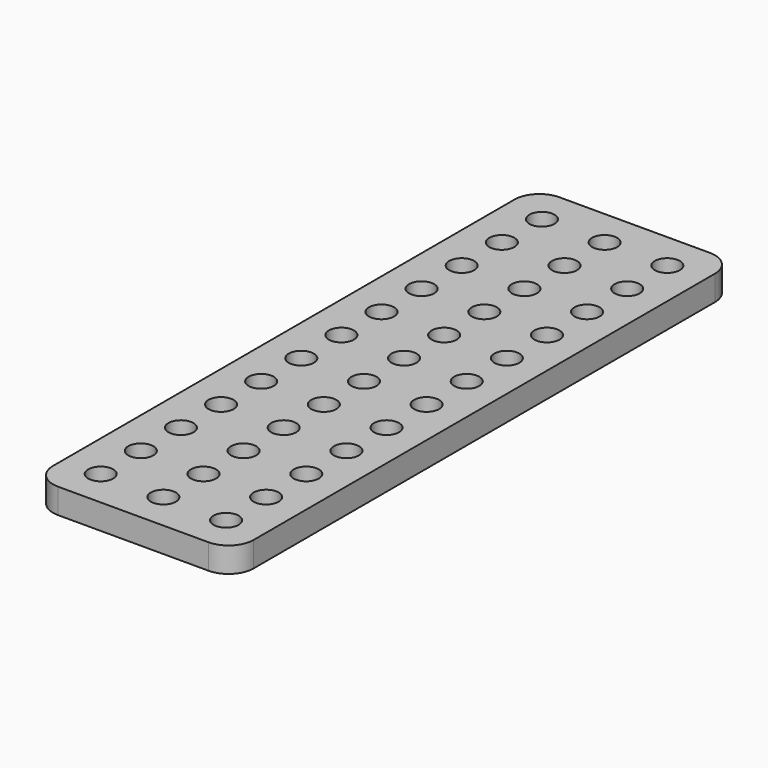
from build123d import *

# Parameters (mm, degrees)
F0_W     = 32
F0_H     = 100
F0_R     = 2
F1_DEPTH = 4
F2_R     = 4


with BuildPart() as f1:
    # F0 (on Top) → F1 (new body)
    with BuildSketch(Plane.XY):
        with Locations((-16, 64.960798)):
            Rectangle(F0_W, F0_H)
        with Locations((-26, 20.960798)):
            Circle(F0_R, mode=Mode.SUBTRACT)
        with Locations((-26, 28.960798)):
            Circle(F0_R, mode=Mode.SUBTRACT)
        with Locations((-26, 36.960798)):
            Circle(F0_R, mode=Mode.SUBTRACT)
        with Locations((-26, 44.960798)):
            Circle(F0_R, mode=Mode.SUBTRACT)
        with Locations((-26, 52.960798)):
            Circle(F0_R, mode=Mode.SUBTRACT)
        with Locations((-26, 60.960798)):
            Circle(F0_R, mode=Mode.SUBTRACT)
        with Locations((-16, 20.960798)):
            Circle(F0_R, mode=Mode.SUBTRACT)
        with Locations((-16, 28.960798)):
            Circle(F0_R, mode=Mode.SUBTRACT)
        with Locations((-16, 36.960798)):
            Circle(F0_R, mode=Mode.SUBTRACT)
        with Locations((-6, 20.960798)):
            Circle(F0_R, mode=Mode.SUBTRACT)
        with Locations((-6, 28.960798)):
            Circle(F0_R, mode=Mode.SUBTRACT)
        with Locations((-6, 36.960798)):
            Circle(F0_R, mode=Mode.SUBTRACT)
        with Locations((-16, 44.960798)):
            Circle(F0_R, mode=Mode.SUBTRACT)
        with Locations((-16, 52.960798)):
            Circle(F0_R, mode=Mode.SUBTRACT)
        with Locations((-16, 60.960798)):
            Circle(F0_R, mode=Mode.SUBTRACT)
        with Locations((-6, 44.960798)):
            Circle(F0_R, mode=Mode.SUBTRACT)
        with Locations((-6, 52.960798)):
            Circle(F0_R, mode=Mode.SUBTRACT)
        with Locations((-6, 60.960798)):
            Circle(F0_R, mode=Mode.SUBTRACT)
        with Locations((-26, 68.960798)):
            Circle(F0_R, mode=Mode.SUBTRACT)
        with Locations((-26, 76.960798)):
            Circle(F0_R, mode=Mode.SUBTRACT)
        with Locations((-26, 84.960798)):
            Circle(F0_R, mode=Mode.SUBTRACT)
        with Locations((-26, 92.960798)):
            Circle(F0_R, mode=Mode.SUBTRACT)
        with Locations((-26, 100.960798)):
            Circle(F0_R, mode=Mode.SUBTRACT)
        with Locations((-26, 108.960798)):
            Circle(F0_R, mode=Mode.SUBTRACT)
        with Locations((-16, 68.960798)):
            Circle(F0_R, mode=Mode.SUBTRACT)
        with Locations((-16, 76.960798)):
            Circle(F0_R, mode=Mode.SUBTRACT)
        with Locations((-16, 84.960798)):
            Circle(F0_R, mode=Mode.SUBTRACT)
        with Locations((-6, 68.960798)):
            Circle(F0_R, mode=Mode.SUBTRACT)
        with Locations((-6, 76.960798)):
            Circle(F0_R, mode=Mode.SUBTRACT)
        with Locations((-6, 84.960798)):
            Circle(F0_R, mode=Mode.SUBTRACT)
        with Locations((-16, 92.960798)):
            Circle(F0_R, mode=Mode.SUBTRACT)
        with Locations((-16, 100.960798)):
            Circle(F0_R, mode=Mode.SUBTRACT)
        with Locations((-16, 108.960798)):
            Circle(F0_R, mode=Mode.SUBTRACT)
        with Locations((-6, 92.960798)):
            Circle(F0_R, mode=Mode.SUBTRACT)
        with Locations((-6, 100.960798)):
            Circle(F0_R, mode=Mode.SUBTRACT)
        with Locations((-6, 108.960798)):
            Circle(F0_R, mode=Mode.SUBTRACT)
    extrude(amount=F1_DEPTH)

    # F2
    f2_edges = [f1.edges().sort_by_distance(p)[0] for p in [
        (-32, 14.960798, 2),
        (0, 14.960798, 2),
        (0, 114.960798, 2),
        (-32, 114.960798, 2),
    ]]
    fillet(f2_edges, radius=F2_R)


solid = f1.part
